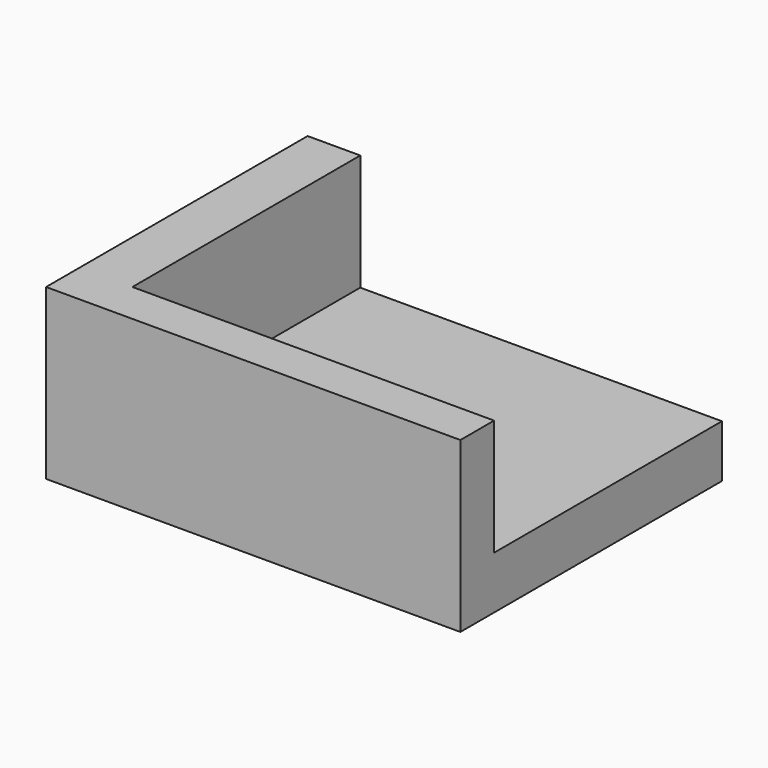
from build123d import *

# Parameters (mm, degrees)
F0_W     = 25.35
F0_H     = 31.05
F0_R     = 1.5
F1_DEPTH = 5
F3_DEPTH = 11.05
F5_DEPTH = 14


with BuildPart() as f1:
    # F0 (on Top) → F1 (new body)
    with BuildSketch(Plane.XY):
        with Locations((-2.675, 4.475)):
            Rectangle(F0_W, F0_H)
        with Locations((6.35, -1.8)):
            Circle(F0_R, mode=Mode.SUBTRACT)
    extrude(amount=F1_DEPTH)

    # F2 (on face) → F3 (join)
    with BuildSketch(Plane.XY.offset(5)):
        Polygon((-10.35, 20), (-15.35, 20), (-15.35, -11.05), (10, -11.05), (10, -7.05), (-10.35, -7.05), align=None)
    extrude(amount=F3_DEPTH)

    # F4 (on face) → F5 (join)
    with BuildSketch(Plane.YZ.offset(10)):
        Polygon((-7.05, 16.05), (-11.05, 16.05), (-11.05, 0), (20, 0), (20, 5), (-7.05, 5), align=None)
    extrude(amount=F5_DEPTH)


solid = f1.part
